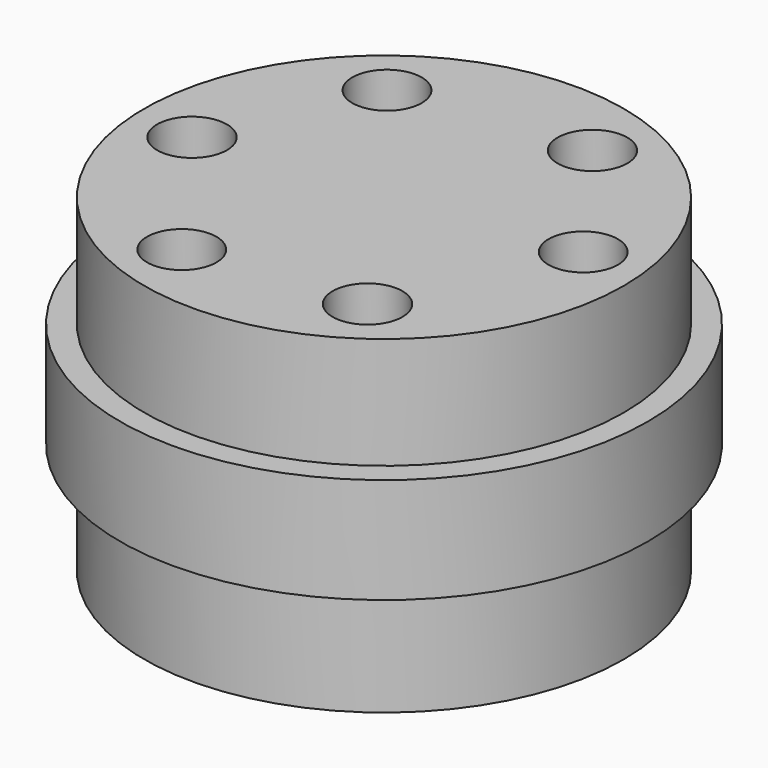
from build123d import *

# Parameters (mm, degrees)
F0_R      = 7.95
F1_DEPTH  = 3.7
F2_R      = 8.75
F3_DEPTH  = 3.5
F4_R      = 7.95
F5_DEPTH  = 3.7
F6_R      = 1.157817429
F7_DEPTH  = 25
F8_R      = 1.150952134
F9_DEPTH  = 25
F10_R     = 7.150952134
F10_R_2   = 3
F10_R_3   = 1.05
F11_DEPTH = 7


with BuildPart() as f1:
    # F0 (on Top) → F1 (new body)
    with BuildSketch(Plane.XY):
        Circle(F0_R)
    extrude(amount=-F1_DEPTH)

    # F2 (on face) → F3 (join)
    with BuildSketch(Plane(origin=(0, 0, -3.7), x_dir=(1, 0, 0), z_dir=(0, 0, -1))):
        Circle(F2_R)
    extrude(amount=F3_DEPTH)

    # F4 (on face) → F5 (join)
    with BuildSketch(Plane(origin=(0, 0, -7.2), x_dir=(1, 0, 0), z_dir=(0, 0, -1))):
        Circle(F4_R)
    extrude(amount=F5_DEPTH)

    # F6 (on face) → F7 (cut)
    with BuildSketch(Plane(origin=(0, 0, -10.9), x_dir=(1, 0, 0), z_dir=(0, 0, -1))):
        with Locations((-5.9807905132, 0.4797341322)):
            Circle(F6_R)
        with Locations((2.5749333111, -5.4193835852)):
            Circle(F6_R)
        with Locations((3.4058572021, 4.939649453)):
            Circle(F6_R)
    extrude(amount=-F7_DEPTH, mode=Mode.SUBTRACT)

    # F8 (on face) → F9 (cut)
    with BuildSketch(Plane(origin=(0, 0, -10.9), x_dir=(1, 0, 0), z_dir=(0, 0, -1))):
        with Locations((-2.2553007404, 5.56000167)):
            Circle(F8_R)
        with Locations((5.9427530615, -0.8268531007)):
            Circle(F8_R)
        with Locations((-3.6874523211, -4.7331485693)):
            Circle(F8_R)
    extrude(amount=-F9_DEPTH, mode=Mode.SUBTRACT)

    # F10 (on face) → F11 (cut)
    with BuildSketch(Plane(origin=(0, 0, -10.9), x_dir=(1, 0, 0), z_dir=(0, 0, -1))):
        Circle(F10_R)
        Circle(F10_R_2, mode=Mode.SUBTRACT)
        Circle(F10_R_3)
    extrude(amount=-F11_DEPTH, mode=Mode.SUBTRACT)


solid = f1.part
